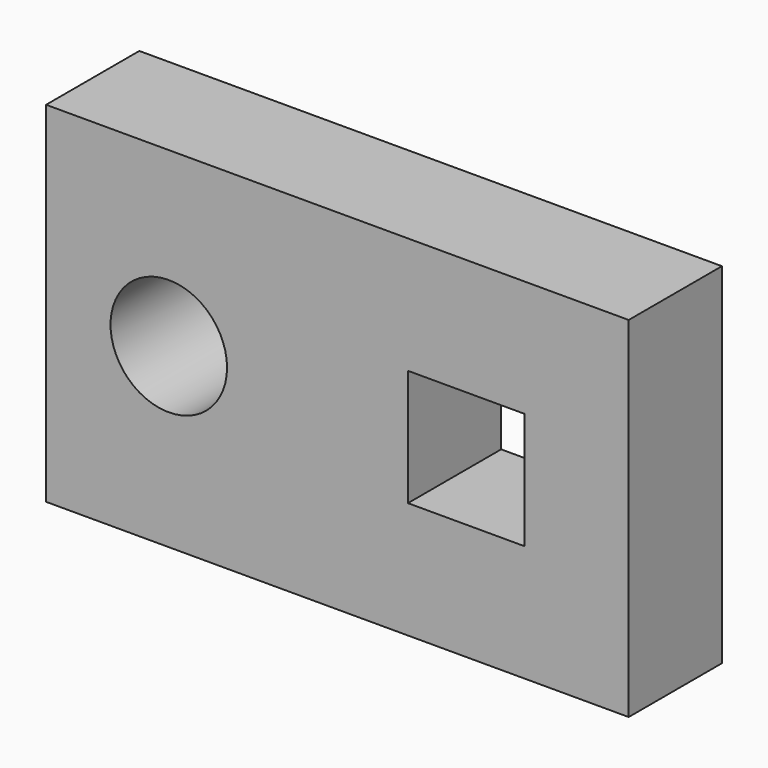
from build123d import *

# Parameters (mm, degrees)
F0_W     = 127
F0_H     = 76.2
F0_W_2   = 25.4
F0_H_2   = 25.4
F0_R     = 12.7
F1_DEPTH = 25.4
F2_DEPTH = 19.05


with BuildPart() as f1:
    # F0 (on Front) → F1 (new body)
    with BuildSketch(Plane.XZ):
        with Locations((-63.5, 38.1)):
            Rectangle(F0_W, F0_H)
        with Locations((-35.420573, 38.1)):
            Rectangle(F0_W_2, F0_H_2, mode=Mode.SUBTRACT)
        with Locations((-100.25119, 38.57284)):
            Circle(F0_R, mode=Mode.SUBTRACT)
    extrude(amount=F1_DEPTH)

    # F0 (on Front) → F2 (join)
    with BuildSketch(Plane.XZ):
        with Locations((-63.5, 38.1)):
            Rectangle(F0_W, F0_H)
        with Locations((-35.420573, 38.1)):
            Rectangle(F0_W_2, F0_H_2, mode=Mode.SUBTRACT)
        with Locations((-100.25119, 38.57284)):
            Circle(F0_R, mode=Mode.SUBTRACT)
    extrude(amount=F2_DEPTH)


solid = f1.part
